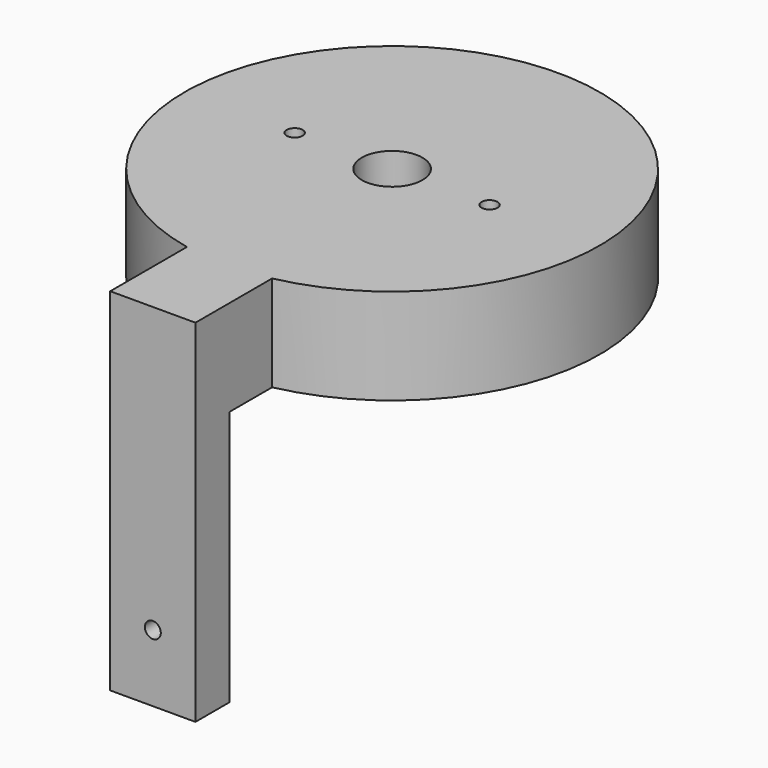
from build123d import *

# Parameters (mm, degrees)
F0_R      = 19.5
F1_DEPTH  = 9
F2_R      = 2.85
F3_DEPTH  = 9.001
F4_W      = 8
F4_H      = 9
F5_DEPTH  = 9
F6_W      = 8
F6_H      = 4
F7_DEPTH  = 24
F8_R      = 0.75
F9_DEPTH  = 9.001
F10_R     = 0.75
F11_DEPTH = 4.001


with BuildPart() as f1:
    # F0 (on Top) → F1 (new body)
    with BuildSketch(Plane.XY):
        Circle(F0_R)
    extrude(amount=F1_DEPTH)

    # F2 (on face) → F3 (cut, through all)
    with BuildSketch(Plane.XY.offset(9)):
        Circle(F2_R)
    extrude(amount=-F3_DEPTH, mode=Mode.SUBTRACT)

    # F4 (on face) → F5 (join)
    with BuildSketch(Plane(origin=(0, 0, 0), x_dir=(1, 0, 0), z_dir=(0, 0, -1))):
        with Locations((0, 23.583922)):
            Rectangle(F4_W, F4_H)
    extrude(amount=-F5_DEPTH)

    # F6 (on face) → F7 (join)
    with BuildSketch(Plane(origin=(0, 0, 0), x_dir=(1, 0, 0), z_dir=(0, 0, -1))):
        with Locations((0, 26.083922)):
            Rectangle(F6_W, F6_H)
    extrude(amount=F7_DEPTH)

    # F8 (on face) → F9 (cut, through all)
    with BuildSketch(Plane(origin=(0, 0, 0), x_dir=(1, 0, 0), z_dir=(0, 0, -1))):
        with Locations((-9.15, 0)):
            Circle(F8_R)
        with Locations((9.15, 0)):
            Circle(F8_R)
    extrude(amount=-F9_DEPTH, mode=Mode.SUBTRACT)

    # F10 (on face) → F11 (cut, through all)
    with BuildSketch(Plane(origin=(0, -24.083922, 0), x_dir=(-1, 0, 0), z_dir=(0, 1, 0))):
        with Locations((0, -17.7)):
            Circle(F10_R)
    extrude(amount=-F11_DEPTH, mode=Mode.SUBTRACT)


solid = f1.part
